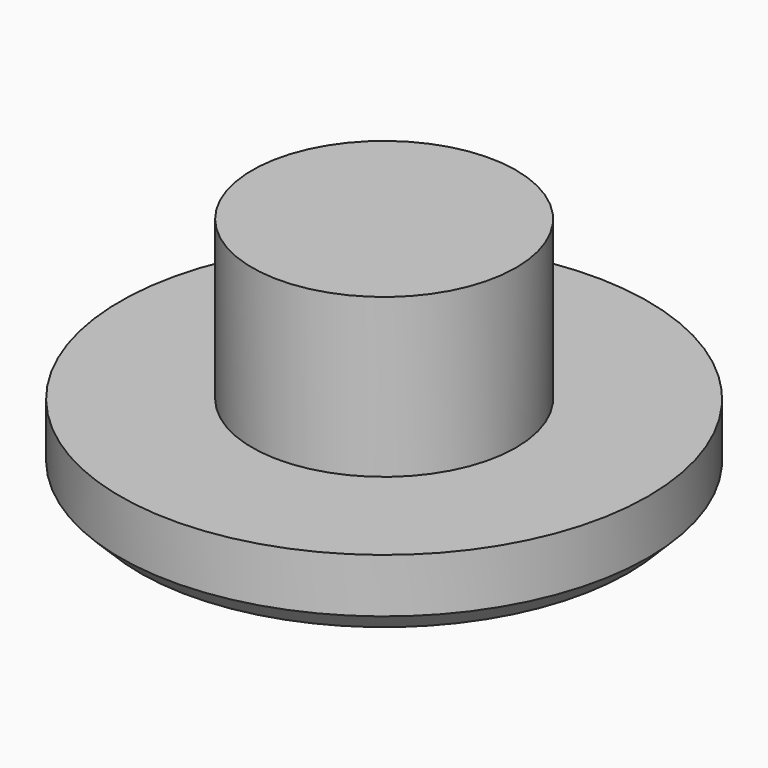
from build123d import *

# Parameters (mm, degrees)
CYLINDER093_R     = 5
CYLINDER093_DEPTH = 8.8
CYLINDER092_R     = 10
CYLINDER092_DEPTH = 2.8
CHAMFER004_SIZE   = 0.75


with BuildPart() as cylinder093:
    # Cylinder093 → Cylinder093 (new body)
    with BuildSketch(Plane.XY.offset(12)):
        Circle(CYLINDER093_R)
    extrude(amount=CYLINDER093_DEPTH)


with BuildPart() as hub_rear_support:
    # Cylinder092 → Cylinder092 (new body)
    with BuildSketch(Plane.XY.offset(12)):
        Circle(CYLINDER092_R)
    extrude(amount=CYLINDER092_DEPTH)

    # Fusion047: union Cylinder093
    add(cylinder093.part)

    # Chamfer004
    chamfer004_edges = [hub_rear_support.edges().sort_by_distance(p)[0] for p in [
        (-10, 0, 12),
    ]]
    chamfer(chamfer004_edges, length=CHAMFER004_SIZE)


solid = hub_rear_support.part
